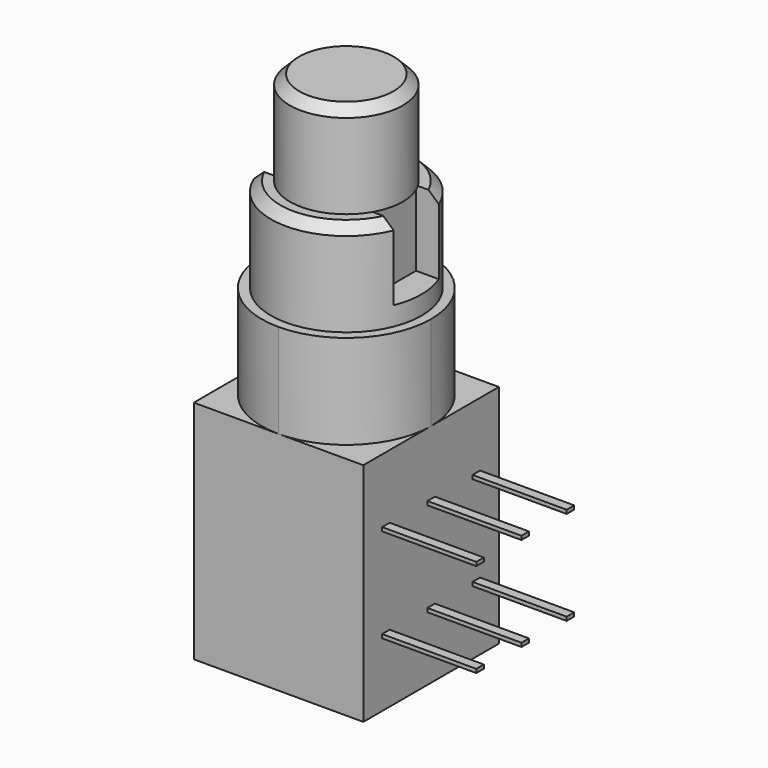
from build123d import *

# Parameters (mm, degrees)
F0_W      = 9
F0_H      = 9
F1_DEPTH  = 12
F3_DEPTH  = 5
F4_R      = 4
F5_DEPTH  = 5
F7_DEPTH  = 4
F8_R      = 3
F9_DEPTH  = 5
F10_W     = 0.5
F10_H     = 0.2
F11_DEPTH = 5
F12_SIZE  = 0.5


with BuildPart() as f1:
    # F0 (on Top) → F1 (new body)
    with BuildSketch(Plane.XY):
        Rectangle(F0_W, F0_H)
    extrude(amount=F1_DEPTH)

    # F2 (on face) → F3 (join)
    with BuildSketch(Plane.XY.offset(12)):
        with BuildLine():
            ThreePointArc((0, -4.5), (3.1819805153, -3.1819805153), (4.5, 0))
            ThreePointArc((4.5, 0), (3.1819805153, 3.1819805153), (0, 4.5))
            ThreePointArc((0, 4.5), (-3.1819805153, 3.1819805153), (-4.5, 0))
            ThreePointArc((-4.5, 0), (-3.1819805153, -3.1819805153), (0, -4.5))
        make_face()
    extrude(amount=F3_DEPTH)

    # F4 (on face) → F5 (join)
    with BuildSketch(Plane.XY.offset(17)):
        Circle(F4_R)
    extrude(amount=F5_DEPTH)

    # F6 (on face) → F7 (cut)
    with BuildSketch(Plane.XY.offset(22)):
        with BuildLine():
            Line((-2.5, 1.5), (-3.7080992435, 1.5))
            ThreePointArc((-3.7080992435, 1.5), (-4, 0), (-3.7080992435, -1.5))
            Line((-3.7080992435, -1.5), (-2.5, -1.5))
            Line((-2.5, -1.5), (-2.5, 1.5))
        make_face()
        with BuildLine():
            ThreePointArc((3.7080992435, -1.5), (3.92634671, -0.7640690498), (4, 0))
            ThreePointArc((4, 0), (3.92634671, 0.7640690498), (3.7080992435, 1.5))
            Line((3.7080992435, 1.5), (2.5, 1.5))
            Line((2.5, 1.5), (2.5, -1.5))
            Line((2.5, -1.5), (3.7080992435, -1.5))
        make_face()
    extrude(amount=-F7_DEPTH, mode=Mode.SUBTRACT)

    # F8 (on face) → F9 (join)
    with BuildSketch(Plane.XY.offset(22)):
        Circle(F8_R)
    extrude(amount=F9_DEPTH)

    # F10 (on face) → F11 (join)
    with BuildSketch(Plane.YZ.offset(4.5)):
        with Locations((-3, 8.5)):
            Rectangle(F10_W, F10_H)
        with Locations((0, 8.5)):
            Rectangle(F10_W, F10_H)
        with Locations((3, 8.5)):
            Rectangle(F10_W, F10_H)
        with Locations((-3, 3.5)):
            Rectangle(F10_W, F10_H)
        with Locations((0, 3.5)):
            Rectangle(F10_W, F10_H)
        with Locations((3, 3.5)):
            Rectangle(F10_W, F10_H)
    extrude(amount=F11_DEPTH)

    # F12
    f12_edges = [f1.edges().sort_by_distance(p)[0] for p in [
        (-3, 0, 27),
        (0, 4, 22),
        (0, -4, 22),
    ]]
    chamfer(f12_edges, length=F12_SIZE)


solid = f1.part
